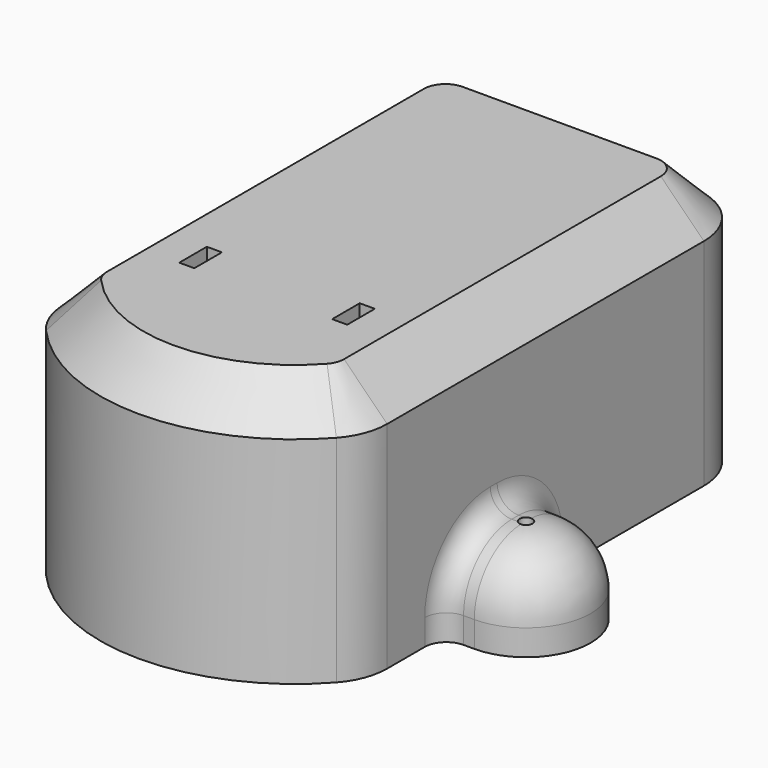
from build123d import *

# Parameters (mm, degrees)
SKETCH007_R      = 1.5
EXTRUDE012_DEPTH = 75
SKETCH008_R      = 13
EXTRUDE014_DEPTH = 3.5
EXTRUDE002_DEPTH = 44
SKETCH002_W      = 3.5
SKETCH002_H      = 8
EXTRUDE003_DEPTH = 75
SKETCH003_W      = 40
SKETCH003_H      = 10
EXTRUDE005_DEPTH = 30
SKETCH004_W      = 68.5
SKETCH004_H      = 30
EXTRUDE006_DEPTH = 6
SKETCH005_W      = 5.5
SKETCH005_H      = 24
EXTRUDE008_DEPTH = 12
EXTRUDE009_DEPTH = 3
EXTRUDE010_DEPTH = 3
EXTRUDE_DEPTH    = 9
EXTRUDE017_DEPTH = 20
EXTRUDE015_DEPTH = 60
FILLET_R         = 15
FILLET001_R      = 14
FILLET002_R      = 5
CHAMFER_SIZE     = 10


with BuildPart() as extrude012:
    # Sketch007 → Extrude012 (new body)
    with BuildSketch(Plane.XY):
        with Locations((-45, 23)):
            Circle(SKETCH007_R)
        with Locations((45, 23)):
            Circle(SKETCH007_R)
    extrude(amount=EXTRUDE012_DEPTH)


with BuildPart() as extrude014:
    # Sketch008 → Extrude014 (new body)
    with BuildSketch(Plane.XY):
        with Locations((-45, 23)):
            Circle(SKETCH008_R)
        with Locations((45, 23)):
            Circle(SKETCH008_R)
    extrude(amount=EXTRUDE014_DEPTH)


with BuildPart() as extrude002:
    # Sketch001 (on Face6 of Extrude) → Extrude002 (new body)
    with BuildSketch(Plane.XY.offset(9)):
        with BuildLine():
            Line((-14, 21), (-14, -1))
            ThreePointArc((-14, -1), (-10.485281, -9.485281), (-2, -13))
            Line((-2, -13), (2, -13))
            ThreePointArc((2, -13), (10.485281, -9.485281), (14, -1))
            Line((14, 21), (14, -1))
            Line((-14, 21), (14, 21))
        make_face()
    extrude(amount=EXTRUDE002_DEPTH)


with BuildPart() as extrude003:
    # Sketch002 (on Face6 of Extrude) → Extrude003 (new body)
    with BuildSketch(Plane.XY.offset(9)):
        with Locations((-17.75, 7)):
            Rectangle(SKETCH002_W, SKETCH002_H)
        with Locations((17.75, 7)):
            Rectangle(SKETCH002_W, SKETCH002_H)
    extrude(amount=EXTRUDE003_DEPTH)


with BuildPart() as extrude005:
    # Sketch003 (on Face6 of Extrude) → Extrude005 (new body)
    with BuildSketch(Plane.XY.offset(9)):
        with Locations((0, 7)):
            Rectangle(SKETCH003_W, SKETCH003_H)
    extrude(amount=EXTRUDE005_DEPTH)


with BuildPart() as extrude006:
    # Sketch004 → Extrude006 (new body)
    with BuildSketch(Plane.XY):
        with Locations((0, 24)):
            Rectangle(SKETCH004_W, SKETCH004_H)
    extrude(amount=EXTRUDE006_DEPTH)


with BuildPart() as extrude008:
    # Sketch005 (on Face6 of Extrude) → Extrude008 (new body)
    with BuildSketch(Plane.XY.offset(9)):
        with Locations((-2.75, 12)):
            Rectangle(SKETCH005_W, SKETCH005_H)
    extrude(amount=EXTRUDE008_DEPTH)


with BuildPart() as extrude009:
    # Sketch006 → Extrude009 (new body)
    with BuildSketch(Plane.XY):
        with BuildLine():
            ThreePointArc((-23.5, 92), (-27.742641, 90.242641), (-29.5, 86))
            Line((-29.5, 48), (-29.5, 86))
            ThreePointArc((-29.5, 48), (-27.742641, 43.757359), (-23.5, 42))
            Line((23.5, 42), (-23.5, 42))
            ThreePointArc((23.5, 42), (27.742641, 43.757359), (29.5, 48))
            Line((29.5, 86), (29.5, 48))
            ThreePointArc((29.5, 86), (27.742641, 90.242641), (23.5, 92))
            Line((-23.5, 92), (23.5, 92))
        make_face()
    extrude(amount=EXTRUDE009_DEPTH)


with BuildPart() as extrude010:
    # Sketch006 → Extrude010 (new body)
    with BuildSketch(Plane.XY):
        with BuildLine():
            ThreePointArc((-23.5, 92), (-27.742641, 90.242641), (-29.5, 86))
            Line((-29.5, 48), (-29.5, 86))
            ThreePointArc((-29.5, 48), (-27.742641, 43.757359), (-23.5, 42))
            Line((23.5, 42), (-23.5, 42))
            ThreePointArc((23.5, 42), (27.742641, 43.757359), (29.5, 48))
            Line((29.5, 86), (29.5, 48))
            ThreePointArc((29.5, 86), (27.742641, 90.242641), (23.5, 92))
            Line((-23.5, 92), (23.5, 92))
        make_face()
    extrude(amount=EXTRUDE010_DEPTH)


with BuildPart() as fusion001:
    # Sketch → Extrude (new body)
    with BuildSketch(Plane.XY):
        with BuildLine():
            ThreePointArc((-31.25, -1), (0, -13), (31.25, -1))
            Line((31.25, -1), (31.25, 47.5))
            Line((-31.25, 47.5), (31.25, 47.5))
            Line((-31.25, -1), (-31.25, 47.5))
        make_face()
    extrude(amount=EXTRUDE_DEPTH)

    # Fusion: union Extrude002, Extrude003, Extrude005, Extrude006, Extrude008, Extrude009, Extrude010
    add(extrude002.part)
    add(extrude003.part)
    add(extrude005.part)
    add(extrude006.part)
    add(extrude008.part)
    add(extrude009.part)
    add(extrude010.part)

    # Fusion001: union Extrude012, Extrude014
    add(extrude012.part)
    add(extrude014.part)


with BuildPart() as extrude017:
    # Sketch010 → Extrude017 (new body)
    with BuildSketch(Plane.XY):
        with BuildLine():
            ThreePointArc((-45, 38), (-60, 23), (-45, 8))
            Line((-45, 8), (45, 8))
            ThreePointArc((45, 8), (60, 23), (45, 38))
            Line((45, 38), (-45, 38))
        make_face()
    extrude(amount=EXTRUDE017_DEPTH)


with BuildPart() as cut:
    # Sketch009 → Extrude015 (new body)
    with BuildSketch(Plane.XY):
        with BuildLine():
            Line((-37.5, 99), (-37.5, -13))
            ThreePointArc((-37.5, -13), (0, -33), (37.5, -13))
            Line((37.5, 99), (37.5, -13))
            Line((-37.5, 99), (37.5, 99))
        make_face()
    extrude(amount=EXTRUDE015_DEPTH)

    # Fusion002: union Extrude017
    add(extrude017.part)

    # Fillet
    fillet_edges = [cut.edges().sort_by_distance(p)[0] for p in [
        (-37.5, -13, 30),
        (-37.5, 99, 30),
        (37.5, -13, 30),
        (37.5, 99, 30),
    ]]
    fillet(fillet_edges, radius=FILLET_R)

    # Fillet001
    fillet001_edges = [cut.edges().sort_by_distance(p)[0] for p in [
        (-41.25, 38, 20),
        (-41.25, 8, 20),
        (-60, 23, 20),
        (41.25, 38, 20),
        (60, 23, 20),
        (41.25, 8, 20),
    ]]
    fillet(fillet001_edges, radius=FILLET001_R)

    # Fillet002
    fillet002_edges = [cut.edges().sort_by_distance(p)[0] for p in [
        (-37.5, 8, 3),
        (-37.5, 12.100505, 15.899495),
        (-37.5, 23, 20),
        (-37.5, 33.899495, 15.899495),
        (-37.5, 38, 3),
        (37.5, 8, 3),
        (37.5, 12.100505, 15.899495),
        (37.5, 23, 20),
        (37.5, 33.899495, 15.899495),
        (37.5, 38, 3),
    ]]
    fillet(fillet002_edges, radius=FILLET002_R)

    # Chamfer
    chamfer_edges = [cut.edges().sort_by_distance(p)[0] for p in [
        (-37.5, 38.038835, 60),
        (-33.106602, 94.606602, 60),
        (-36.515628, -13.26669, 60),
        (0, -33, 60),
        (36.515628, -13.26669, 60),
        (37.5, 38.038835, 60),
        (33.106602, 94.606602, 60),
        (0, 99, 60),
    ]]
    chamfer(chamfer_edges, length=CHAMFER_SIZE)

    # Cut: cut Fusion001
    add(fusion001.part, mode=Mode.SUBTRACT)


solid = cut.part
